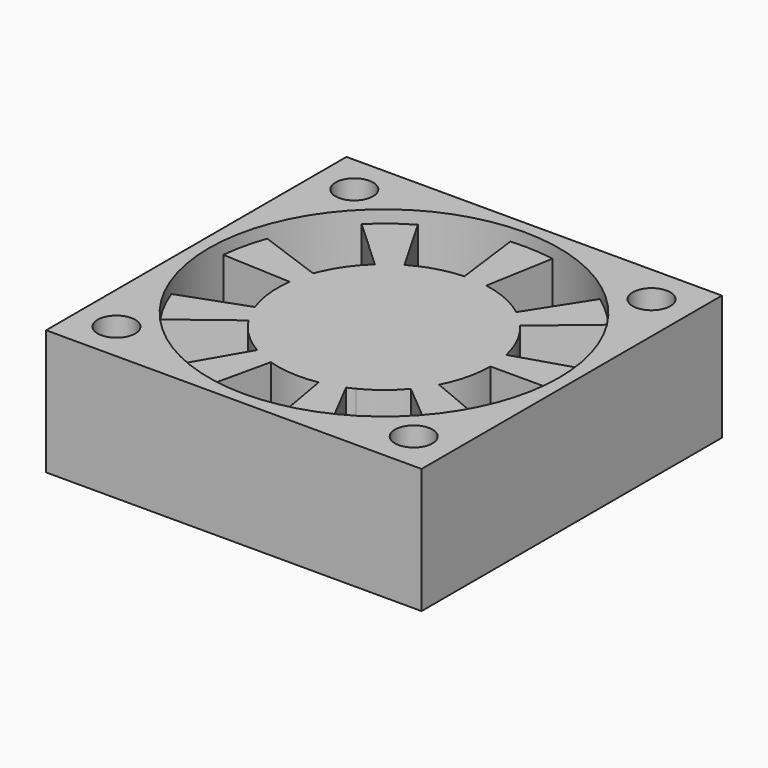
from build123d import *

# Parameters (mm, degrees)
SKETCH051_W           = 30
SKETCH051_H           = 30
SKETCH051_R           = 14
SKETCH051_R_2         = 1.5
PAD022_DEPTH          = 10
PAD023_DEPTH          = 8
POLARPATTERN001_COUNT = 9


with BuildPart() as part:
    # Sketch051 → Pad022 (new body)
    with BuildSketch(Plane.XY):
        Rectangle(SKETCH051_W, SKETCH051_H)
        Circle(SKETCH051_R, mode=Mode.SUBTRACT)
        with Locations((-11.875, 11.875)):
            Circle(SKETCH051_R_2, mode=Mode.SUBTRACT)
        with Locations((11.875, 11.875)):
            Circle(SKETCH051_R_2, mode=Mode.SUBTRACT)
        with Locations((-11.875, -11.875)):
            Circle(SKETCH051_R_2, mode=Mode.SUBTRACT)
        with Locations((11.875, -11.875)):
            Circle(SKETCH051_R_2, mode=Mode.SUBTRACT)
    extrude(amount=PAD022_DEPTH)

    # Sketch052 → Pad023 (join)
    with BuildSketch(Plane.XY.offset(1)):
        with BuildLine():
            ThreePointArc((8.298704, 1.838887), (-8.449526, -0.924936), (8.5, 0))
            Line((8.5, 0), (14.143682, 0))
            Line((14.143682, 0), (13.972063, 3.60798))
            Line((13.972063, 3.60798), (8.298704, 1.838887))
        make_face()
    pad023 = extrude(amount=PAD023_DEPTH)

    # PolarPattern001: Pad023 ×9 about axis
    polarpattern001_axis = Axis((0, 0, 1), (0, 0, 1))
    for i in range(1, POLARPATTERN001_COUNT):
        add(pad023.rotate(polarpattern001_axis, i * 360 / POLARPATTERN001_COUNT))


solid = part.part
